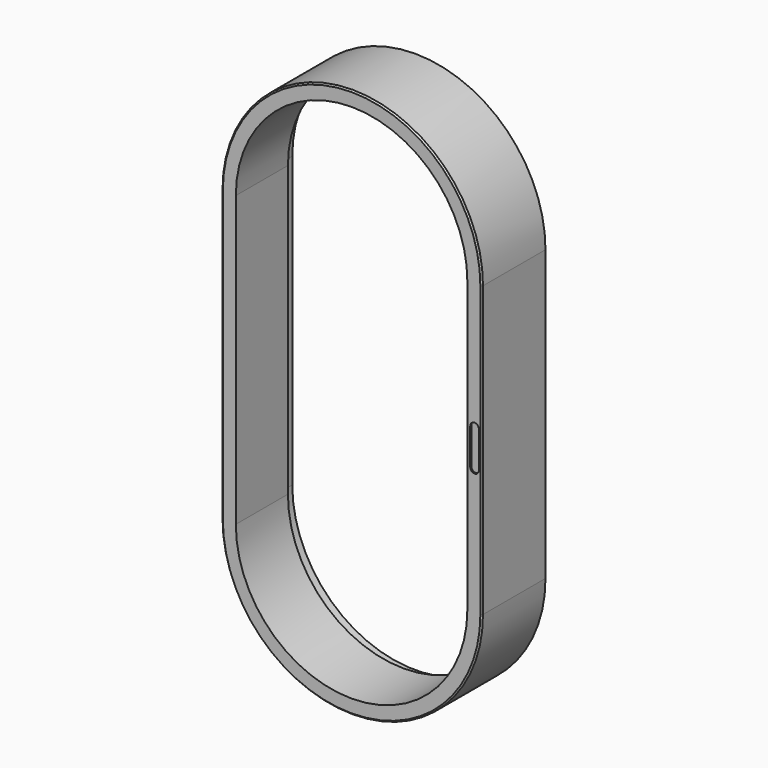
from build123d import *

# Parameters (mm, degrees)
EXTRUDE023_DEPTH = 2
CHAMFER001_SIZE  = 2


with BuildPart() as doorlockmountplatecutout:
    # Sketch029 → Extrude023 (new body)
    with BuildSketch(Plane(origin=(0, 0, 0), x_dir=(-1, 0, 0), z_dir=(0, 1, 0))):
        with BuildLine():
            Line((6, 25), (6, -25))
            ThreePointArc((-6, -25), (0, -31), (6, -25))
            Line((-6, -25), (-6, 25))
            ThreePointArc((6, 25), (0, 31), (-6, 25))
        make_face()
    extrude(amount=EXTRUDE023_DEPTH)


with BuildPart() as doorlockmountplatecutout_1:
    # Extrude023 placement: moved
    add(doorlockmountplatecutout.part.moved(Location((170, -55, 0))))


with BuildPart() as mainbody:
    # Sweep: sweep along a path in Sketch001
    with BuildLine(Plane.XZ) as sweep_path:
        ThreePointArc((180, 200), (0, 380), (-180, 200))
        Line((-180, 200), (-180, -200))
        ThreePointArc((-180, -200), (0, -380), (180, -200))
        Line((180, -200), (180, 200))
    # Sketch → Sweep (sweep)
    with BuildSketch(Plane.XY):
        Polygon((160, -55), (160, 35), (170, 35), (170, 55), (180, 55), (180, -55), align=None)
    sweep(path=sweep_path.line)

    # Cut001: cut DoorLockMountPlateCutout
    add(doorlockmountplatecutout_1.part, mode=Mode.SUBTRACT)

    # Chamfer001
    chamfer001_edges = [mainbody.edges().sort_by_distance(p)[0] for p in [
        (0, -55, 380),
        (180, -55, 0),
        (-180, -55, 0),
        (0, -55, -380),
    ]]
    chamfer(chamfer001_edges, length=CHAMFER001_SIZE)


solid = mainbody.part
